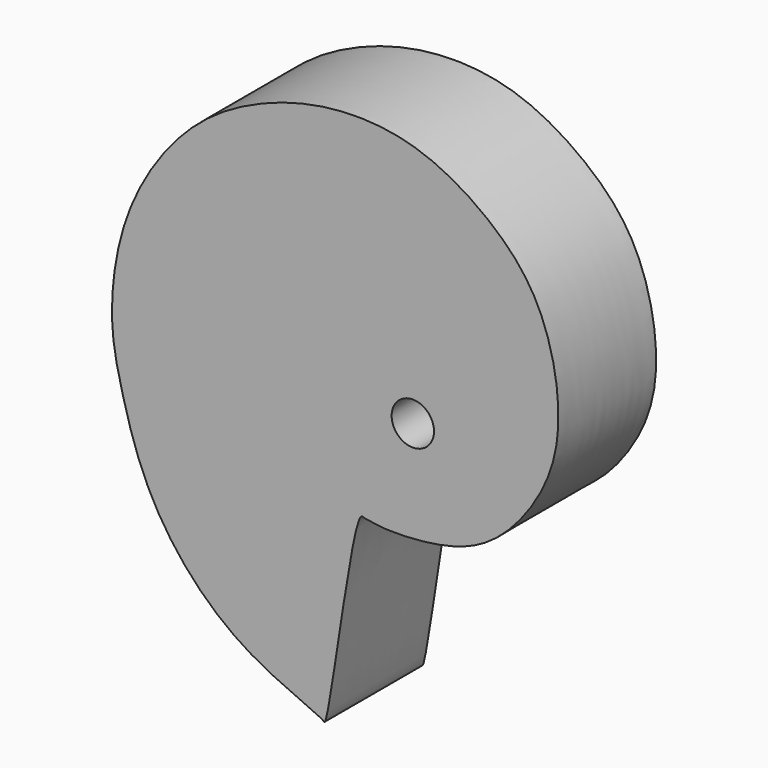
from build123d import *

# Parameters (mm, degrees)
F0_R     = 3.302
F1_DEPTH = 19.05


with BuildPart() as f1:
    # F0 (on Front) → F1 (new body)
    with BuildSketch(Plane.XZ):
        with BuildLine():
            add(Edge.make_bspline(
                [(-20.3122682496, -30.0614489449), (-21.8529014194, -32.4869364936), (-25.2562556718, -61.0374002029), (-26.4015829638, -59.2550755266), (-40.4916987759, -54.4730361384), (-53.4394498641, -39.5541976212), (-57.5964804857, -24.6525202708), (-59.6975420087, -15.1668461498), (-57.6377244126, 0.6423476937), (-48.1296490973, 14.790868388), (-37.2431791223, 21.6781069522), (-25.176902074, 25.2726718038), (-11.5783638325, 24.5969705761), (0.5203402756, 17.410357461), (8.9164479529, 7.9096863684), (11.9063732687, -8.9443576741), (6.8091017976, -20.5226976715), (-1.5154404725, -28.9869200488), (-11.6931464635, -30.4694798637), (-16.9057717391, -30.4297746795), (-18.9385816131, -30.0073742754), (-19.6992636674, -29.9827342485), (-20.0912724505, -29.7135253967), (-20.3122682496, -30.0614489449)],
                knots=[0, 0, 0, 0, 0.0826716889, 0.0919592427, 0.1469534166, 0.2156847949, 0.2735579834, 0.3199546034, 0.3788321923, 0.4404501552, 0.4937212894, 0.5463616813, 0.6010827042, 0.6564251537, 0.7094788358, 0.7698547351, 0.8226613609, 0.8732966957, 0.9208756651, 0.9549253103, 0.9754993455, 0.9881411771, 1, 1, 1, 1], degree=3))
        make_face()
        with Locations((-12.1185999632, -14.5089342447)):
            Circle(F0_R, mode=Mode.SUBTRACT)
    extrude(amount=F1_DEPTH)


solid = f1.part
